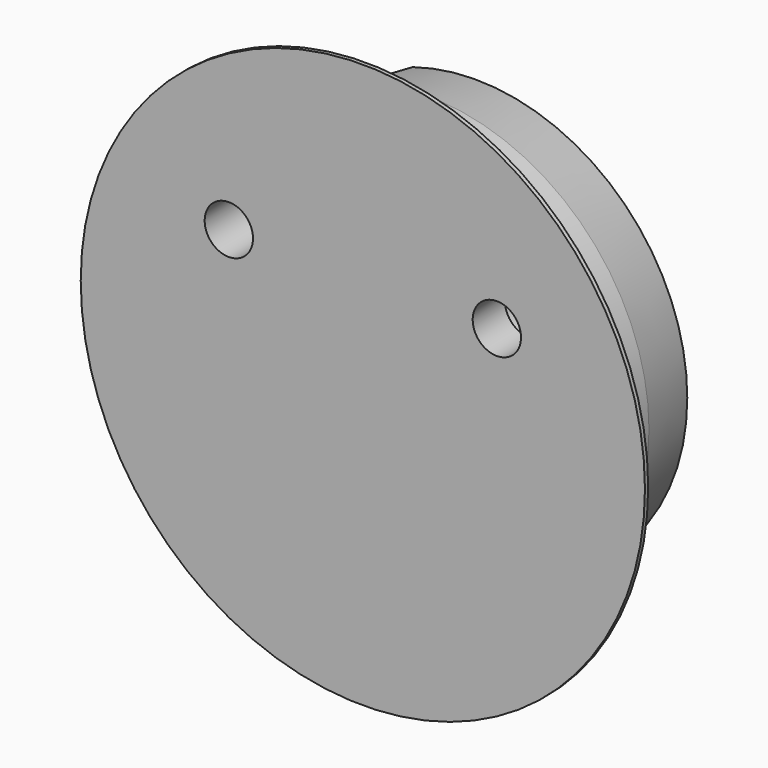
from build123d import *

# Parameters (mm, degrees)
F3_R      = 1.85
F4_DEPTH  = 7
F5_R      = 1.2
F6_DEPTH  = 2
F8_DEPTH  = 4.5
F9_R      = 1
F10_R     = 1.2
F11_DEPTH = 4.5
F12_R     = 5
F13_R     = 14
F13_R_2   = 11
F14_DEPTH = 0.2


with BuildPart() as f1:
    # F0 (on Top) → F1 (revolve)
    with BuildSketch(Plane.XY):
        with BuildLine():
            Line((0, 9), (0, 0))
            Line((0, 0), (11, 0))
            Line((11, 0), (11, 4))
            Line((11, 4), (10.5, 7))
            ThreePointArc((10.5, 7), (10.0017468007, 7.1915925315), (9.5, 7.3738398822))
            Line((9.5, 7.3738398822), (9.5, 6.5449972332))
            Line((9.5, 6.5449972332), (9, 6.5449972332))
            Line((9, 6.5449972332), (9, 7.5449972332))
            ThreePointArc((9, 7.5449972332), (4.5584271698, 8.6339031037), (0, 9))
        make_face()
    revolve(axis=Axis((0, 4.5, 0), (0, 1, 0)))

    # F3 (on offset) → F4 (cut)
    with BuildSketch(Plane.XZ.offset(-9)):
        with Locations((6.65, 4.625)):
            Circle(F3_R)
    extrude(amount=F4_DEPTH, mode=Mode.SUBTRACT)

    # F5 (on face) → F6 (cut, through all)
    with BuildSketch(Plane(origin=(0, 2, 0), x_dir=(-1, 0, 0), z_dir=(0, 1, 0))):
        with Locations((-6.65, 4.625)):
            Circle(F5_R)
    extrude(amount=-F6_DEPTH, mode=Mode.SUBTRACT)

    # F7 (on offset) → F8 (cut)
    with BuildSketch(Plane.XZ.offset(-9)):
        with BuildLine():
            Line((4.9918584287, -4.0461524227), (-3.38657071, 10.4657125331))
            ThreePointArc((-3.38657071, 10.4657125331), (-8.661662033, 6.780531751), (-10.9726648996, 0.775))
            Line((-10.9726648996, 0.775), (-3.1032576969, 0.775))
            Line((-3.1032576969, 0.775), (1.0081415713, -6.3461524227))
            Line((1.0081415713, -6.3461524227), (4.9918584287, -4.0461524227))
        make_face()
    extrude(amount=F8_DEPTH, mode=Mode.SUBTRACT)

    # F9
    f9_edges = [f1.edges().sort_by_distance(p)[0] for p in [
        (4.991858, 6.383907, -4.046152),
        (1.008142, 6.383907, -6.346152),
    ]]
    fillet(f9_edges, radius=F9_R)

    # F10 (on face) → F11 (cut, through all)
    with BuildSketch(Plane(origin=(0, 4.5, 0), x_dir=(-1, 0, 0), z_dir=(0, 1, 0))):
        with Locations((6.65, 4.625)):
            Circle(F10_R)
    extrude(amount=-F11_DEPTH, mode=Mode.SUBTRACT)

    # F12
    f12_edges = [f1.edges().sort_by_distance(p)[0] for p in [
        (-3.103258, 6.66017, 0.775),
    ]]
    fillet(f12_edges, radius=F12_R)

    # F13 (on face) → F14 (join)
    with BuildSketch(Plane.XZ):
        Circle(F13_R)
        Circle(F13_R_2, mode=Mode.SUBTRACT)
    extrude(amount=-F14_DEPTH)


solid = f1.part
